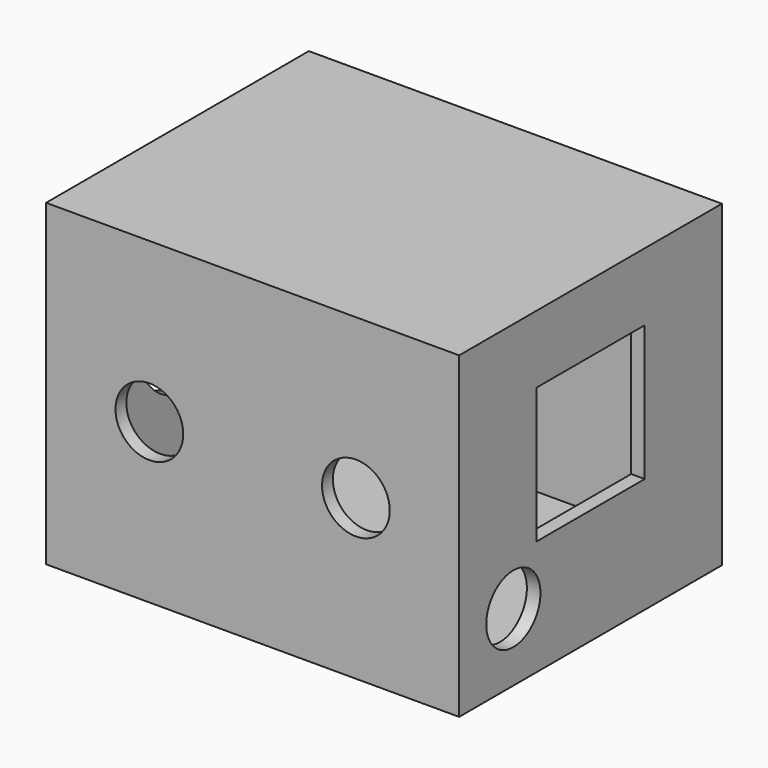
from build123d import *

# Parameters (mm, degrees)
F0_W      = 61
F0_H      = 47
F0_R      = 1.45
F1_DEPTH  = 2
F3_W      = 48.5
F3_H      = 47
F3_R      = 5
F4_DEPTH  = 2
F5_W      = 48.5
F5_H      = 47
F5_R      = 10
F6_DEPTH  = 2
F8_W      = 61
F8_H      = 47
F8_R      = 5
F9_DEPTH  = 2
F11_W     = 61
F11_H     = 48.5
F12_DEPTH = 2
F14_W     = 61
F14_H     = 48.5
F15_DEPTH = 2


with BuildPart() as f1:
    # F0 (on Front) → F1 (new body)
    with BuildSketch(Plane.XZ):
        with Locations((30.5, 23.5)):
            Rectangle(F0_W, F0_H)
        Polygon((20, 5.5), (20, 7), (22, 7), (22, 5.5), (22, 4), (20, 4), align=None, mode=Mode.SUBTRACT)
        with Locations((30.5, 5.5)):
            Circle(F0_R, mode=Mode.SUBTRACT)
    extrude(amount=F1_DEPTH)

    # F3 (on offset) → F4 (join)
    with BuildSketch(Plane.YZ.offset(61)):
        with Locations((-24.25, 23.5)):
            Rectangle(F3_W, F3_H)
        with Locations((-38.5, 10)):
            Circle(F3_R, mode=Mode.SUBTRACT)
        Polygon((-34.25, 37), (-24.25, 37), (-14.25, 37), (-14.25, 17), (-34.25, 17), align=None, mode=Mode.SUBTRACT)
    extrude(amount=-F4_DEPTH)

    # F5 (on Right) → F6 (join)
    with BuildSketch(Plane.YZ):
        with Locations((-24.25, 23.5)):
            Rectangle(F5_W, F5_H)
        with Locations((-24.25, 23.5)):
            Circle(F5_R, mode=Mode.SUBTRACT)
    extrude(amount=F6_DEPTH)

    # F8 (on offset) → F9 (join)
    with BuildSketch(Plane.XZ.offset(48.5)):
        with Locations((30.5, 23.5)):
            Rectangle(F8_W, F8_H)
        with Locations((15.25, 23.5)):
            Circle(F8_R, mode=Mode.SUBTRACT)
        with Locations((45.75, 23.5)):
            Circle(F8_R, mode=Mode.SUBTRACT)
    extrude(amount=-F9_DEPTH)

    # F11 (on offset) → F12 (join)
    with BuildSketch(Plane.XY.offset(47)):
        with Locations((30.5, -24.25)):
            Rectangle(F11_W, F11_H)
    extrude(amount=-F12_DEPTH)

    # F14 (on offset) → F15 (join)
    with BuildSketch(Plane(origin=(0, 0, 0), x_dir=(1, 0, 0), z_dir=(0, 0, -1))):
        with Locations((30.5, 24.25)):
            Rectangle(F14_W, F14_H)
    extrude(amount=-F15_DEPTH)


solid = f1.part
